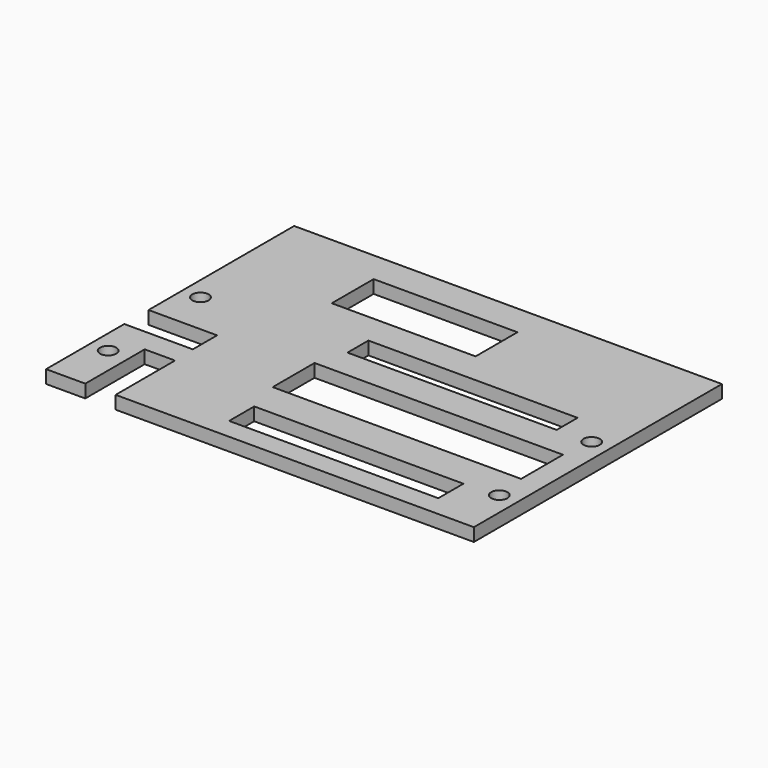
from build123d import *

# Parameters (mm, degrees)
F0_R     = 1.9812
F0_W     = 50.8
F0_H     = 7.62
F0_W_2   = 60.325
F0_H_2   = 12.7
F0_W_3   = 34.925
F0_H_3   = 6.35
F1_DEPTH = 3.175


with BuildPart() as f1:
    # F0 (on Top) → F1 (new body)
    with BuildSketch(Plane.XY):
        Polygon((0, 23.7363), (0, 0), (9.51992, 0), (9.51992, 18.034), (16.88592, 18.034), (16.88592, 0), (103.886, 0), (103.886, 75.2983), (0, 75.2983), (0, 31.1023), (16.64462, 31.1023), (16.64462, 23.7363), align=None)
        with Locations((4.445, 13.2842)):
            Circle(F0_R, mode=Mode.SUBTRACT)
        with Locations((65.786, 8.89)):
            Rectangle(F0_W, F0_H, mode=Mode.SUBTRACT)
        with Locations((99.441, 13.27912)):
            Circle(F0_R, mode=Mode.SUBTRACT)
        with Locations((68.326, 27.432)):
            Rectangle(F0_W_2, F0_H_2, mode=Mode.SUBTRACT)
        with Locations((4.445, 41.3131)):
            Circle(F0_R, mode=Mode.SUBTRACT)
        with Locations((42.8625, 61.3283)):
            Rectangle(F0_W_3, F0_H_2, mode=Mode.SUBTRACT)
        with Locations((65.786, 44.1833)):
            Rectangle(F0_W, F0_H_3, mode=Mode.SUBTRACT)
        with Locations((99.441, 41.3131)):
            Circle(F0_R, mode=Mode.SUBTRACT)
    extrude(amount=F1_DEPTH)


solid = f1.part
